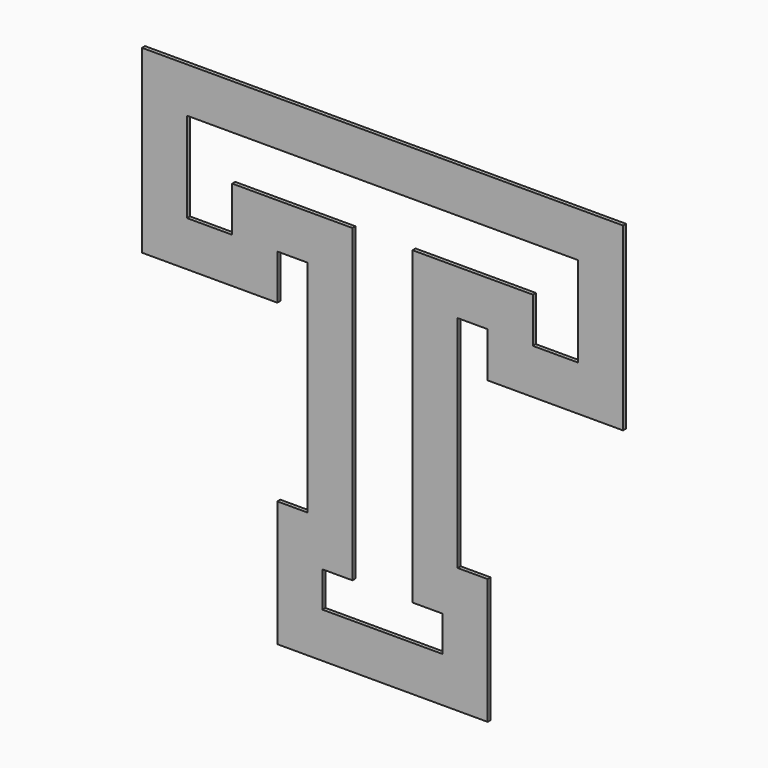
from build123d import *

# Parameters (mm, degrees)
F1_DEPTH = 3.175


with BuildPart() as f1:
    # F0 (on Front) → F1 (new body)
    with BuildSketch(Plane.XZ):
        Polygon((0, 330.2), (-25.4, 330.2), (-127, 330.2), (-165.1, 330.2), (-165.1, 292.1), (-165.1, 254), (-127, 254), (-127, 292.1), (-25.4, 292.1), (-25.4, 30.019521), (-50.8, 30.019521), (-50.8, 0), (-25.4, 0), (0, 0), (50.8, 0), (50.8, 30.019521), (25.4, 30.019521), (25.4, 292.1), (127, 292.1), (127, 254), (165.1, 254), (165.1, 330.2), align=None)
        Polygon((-88.9, 254), (-63.5, 254), (-63.5, 68.119521), (-88.9, 68.119521), (-88.9, -38.1), (0, -38.1), (88.9, -38.1), (88.9, 68.119521), (63.5, 68.119521), (63.5, 254), (88.9, 254), (88.9, 215.9), (203.2, 215.9), (203.2, 368.3), (0, 368.3), (-203.2, 368.3), (-203.2, 215.9), (-88.9, 215.9), align=None)
        Polygon((-127, 330.2), (-25.4, 330.2), (0, 330.2), (165.1, 330.2), (165.1, 254), (127, 254), (127, 292.1), (25.4, 292.1), (25.4, 30.019521), (50.8, 30.019521), (50.8, 0), (0, 0), (-25.4, 0), (-50.8, 0), (-50.8, 30.019521), (-25.4, 30.019521), (-25.4, 292.1), (-127, 292.1), (-127, 254), (-165.1, 254), (-165.1, 292.1), (-165.1, 330.2), align=None, mode=Mode.SUBTRACT)
    extrude(amount=F1_DEPTH)


solid = f1.part
